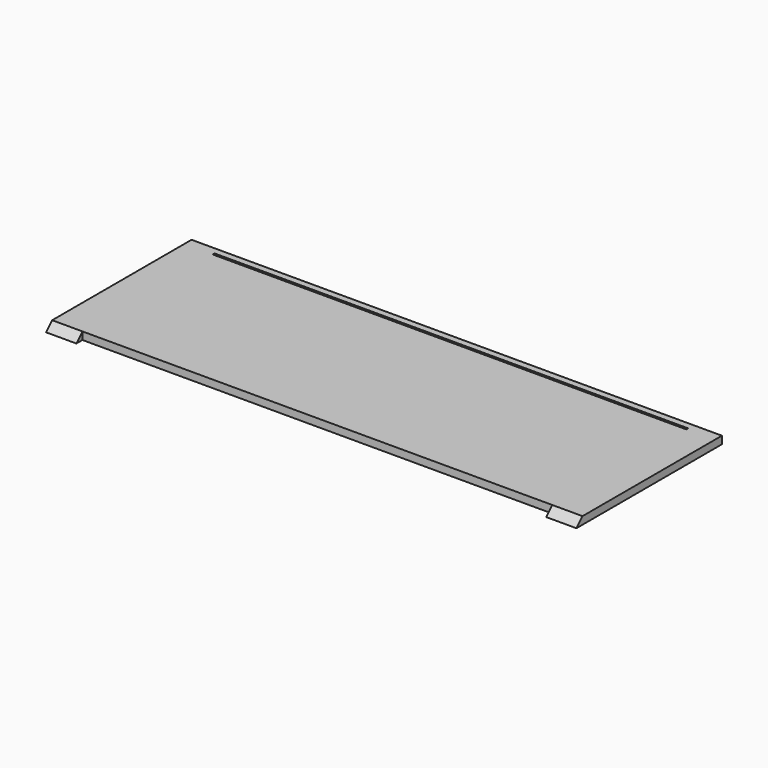
from build123d import *

# Parameters (mm, degrees)
F0_W     = 1400
F0_H     = 480
F1_DEPTH = 20
F3_DEPTH = 1400
F4_W     = 1250
F4_H     = 6
F5_DEPTH = 6
F6_W     = 1240
F6_H     = 20
F7_DEPTH = 20


with BuildPart() as f1:
    # F0 (on Top) → F1 (new body)
    with BuildSketch(Plane.XY):
        Rectangle(F0_W, F0_H)
    extrude(amount=F1_DEPTH)

    # F2 (on face) → F3 (cut)
    with BuildSketch(Plane.YZ.offset(700)):
        Polygon((-240, 20), (-240, 0), (-220, 20), align=None)
    extrude(amount=-F3_DEPTH, mode=Mode.SUBTRACT)

    # F4 (on face) → F5 (cut)
    with BuildSketch(Plane.XY.offset(20)):
        with Locations((0, 219)):
            Rectangle(F4_W, F4_H)
    extrude(amount=-F5_DEPTH, mode=Mode.SUBTRACT)

    # F6 (on face) → F7 (cut)
    with BuildSketch(Plane(origin=(0, 0, 0), x_dir=(1, 0, 0), z_dir=(0, 0, -1))):
        with Locations((0, 230)):
            Rectangle(F6_W, F6_H)
    extrude(amount=-F7_DEPTH, mode=Mode.SUBTRACT)


solid = f1.part
